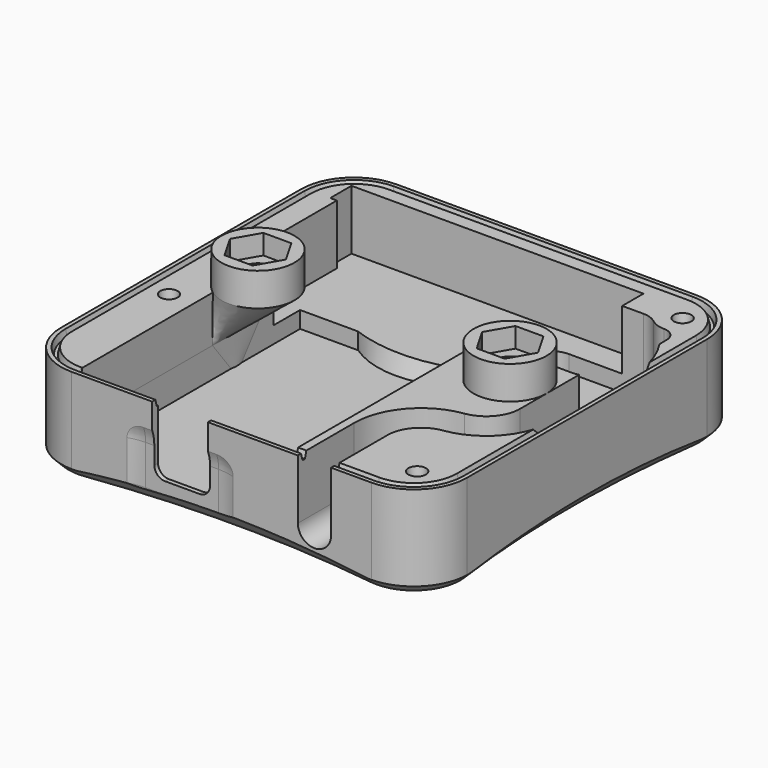
from build123d import *

# Parameters (mm, degrees)
PAD017_DEPTH         = 27.5
POCKET044_DEPTH      = 25.0010001
SKETCH115_W          = 70
SKETCH115_H          = 14
POCKET041_DEPTH      = 30.6010001
POCKET041_DEPTH_BACK = 30.6010001
POCKET048_DEPTH      = 9
SKETCH132_R          = 5.5
PAD019_DEPTH         = 5.5
POCKET049_DEPTH      = 180.2226696994
POCKET055_DEPTH      = 30.6010001


with BuildPart() as part:
    # Sketch116 → Pad017 (new body)
    with BuildSketch(Plane.XY.offset(2.5)):
        with BuildLine():
            Line((-22.6, 30.6), (22.6, 30.6))
            ThreePointArc((30.6, 22.6), (28.2568542495, 28.2568542495), (22.6, 30.6))
            Line((30.6, 22.6), (30.6, -22.6))
            ThreePointArc((22.6, -30.6), (28.2568542495, -28.2568542495), (30.6, -22.6))
            Line((22.6, -30.6), (-22.6, -30.6))
            ThreePointArc((-30.6, -22.6), (-28.2568542495, -28.2568542495), (-22.6, -30.6))
            Line((-30.6, -22.6), (-30.6, 22.6))
            ThreePointArc((-22.6, 30.6), (-28.2568542495, 28.2568542495), (-30.6, 22.6))
        make_face()
    extrude(amount=-PAD017_DEPTH)

    # Sketch117 → Groove014 (revolve, cut)
    with BuildSketch(Plane.XZ.offset(8)):
        Polygon((-26, 3), (-26, -24.2), (-24.4, -8.2), (-23, -6.8), (-23, 3), align=None)
    revolve(axis=Axis((-26, -8, 3), (0, 0, 1)), mode=Mode.SUBTRACT)

    # Sketch118 → Groove013 (revolve, cut)
    with BuildSketch(Plane.XZ.offset(25)):
        Polygon((25, 3), (25, -24.2), (26.6, -8.2), (28, -6.8), (28, 3), align=None)
    revolve(axis=Axis((25, -25, 3), (0, 0, 1)), mode=Mode.SUBTRACT)

    # Sketch119 → Groove016 (revolve, cut)
    with BuildSketch(Plane.XZ.offset(-25)):
        Polygon((25, 3), (25, -24.2), (26.6, -8.2), (28, -6.8), (28, 3), align=None)
    revolve(axis=Axis((25, 25, 3), (0, 0, 1)), mode=Mode.SUBTRACT)

    # SubtractivePipe008: sweep along a path in Sketch126
    with BuildLine(Plane.YZ) as subtractivepipe008_path:
        ThreePointArc((-32.2, -12.527864045), (-30.7227744249, -14.5505102572), (-30.2, -17))
        Line((-30.2, -17), (-30.2, -23))
        ThreePointArc((-30.2, -23), (-30.722774425, -25.4494897428), (-32.2, -27.472135955))
    # Sketch128 → SubtractivePipe008 (sweep, cut)
    with BuildSketch(Plane.XY.offset(-20)):
        with BuildLine():
            ThreePointArc((-11.75, -30.2), (-14.5784271247, -30.7166852265), (-17.0415026221, -32.2))
            Line((-17.0415026221, -32.2), (4.5415026221, -32.2))
            ThreePointArc((4.5415026221, -32.2), (2.0784271247, -30.7166852265), (-0.75, -30.2))
            Line((-11.75, -30.2), (-0.75, -30.2))
        make_face()
    sweep(path=subtractivepipe008_path.line, mode=Mode.SUBTRACT)

    # Sketch129 → Pocket044 (cut, through all)
    with BuildSketch(Plane.XY.offset(-22.5)):
        with BuildLine():
            ThreePointArc((22.8349364905, 22.25), (23.8543560763, 21.6928108612), (25, 21.5))
            ThreePointArc((27, 19.5), (26.4142135624, 20.9142135624), (25, 21.5))
            Line((27, 9.5), (27, 19.5))
            ThreePointArc((23.5, 6), (25.9748737342, 7.0251262658), (27, 9.5))
            Line((9.5, 6), (23.5, 6))
            ThreePointArc((6, 9.5), (7.0251262658, 7.0251262658), (9.5, 6))
            Line((6, 19.5), (6, 9.5))
            ThreePointArc((9.5, 23), (7.0251262658, 21.9748737342), (6, 19.5))
            Line((20.6698729811, 23), (9.5, 23))
            ThreePointArc((22.8349364905, 22.25), (21.8155169048, 22.8071891388), (20.6698729811, 23))
        make_face()
    extrude(amount=POCKET044_DEPTH, mode=Mode.SUBTRACT)

    # Sketch115 → Pocket041 (cut, two sides)
    with BuildSketch(Plane.XZ) as pocket041_sk:
        with Locations((0, -4)):
            Rectangle(SKETCH115_W, SKETCH115_H)
    extrude(amount=-POCKET041_DEPTH, mode=Mode.SUBTRACT)
    extrude(pocket041_sk.sketch, amount=POCKET041_DEPTH_BACK, mode=Mode.SUBTRACT)

    # Sketch122 → Pocket048 (cut, symmetric)
    with BuildSketch(Plane.XY.offset(-11)):
        Polygon((-26.5, 27), (17.5, 27), (17.5, 23), (15.5, 23), (15.5, 7), (-25.5, 7), (-25.5, 23), (-26.5, 23), align=None)
    extrude(amount=POCKET048_DEPTH, both=True, mode=Mode.SUBTRACT)

    # Sketch132 → Pad019 (join)
    with BuildSketch(Plane.XY.offset(-6)):
        with Locations((19, 0)):
            Circle(SKETCH132_R)
    pad019 = extrude(amount=-PAD019_DEPTH)

    # Sketch121 → Groove017 (revolve, cut)
    with BuildSketch(Plane.XZ):
        Polygon((19, -1.5), (21.8, -1.5), (21.2, -3.1484864517), (21.2, -13.5), (19, -13.5), align=None)
    groove017 = revolve(axis=Axis((19, 0, -1.5), (0, 0, 1)), mode=Mode.SUBTRACT)

    # Sketch133 → Pocket049 (cut, through all)
    with BuildSketch(Plane.XY.offset(-9)):
        Polygon((23.2146569651, 0), (21.1073284825, 3.65), (16.8926715175, 3.65), (14.7853430349, 0), (16.8926715175, -3.65), (21.1073284825, -3.65), align=None)
    pocket049 = extrude(amount=POCKET049_DEPTH, mode=Mode.SUBTRACT)

    # Mirrored010: Pad019, Groove017, Pocket049 across YZ
    add(pad019.mirror(Plane.YZ))
    add(groove017.mirror(Plane.YZ), mode=Mode.SUBTRACT)
    add(pocket049.mirror(Plane.YZ), mode=Mode.SUBTRACT)

    # Sketch125 → Pocket055 (cut, through all)
    with BuildSketch(Plane.XZ):
        with BuildLine():
            ThreePointArc((-10.45, -19.5999999999), (-9.9813708499, -20.7313708499), (-8.85, -21.2))
            Line((-8.85, -21.2), (-3.65, -21.2))
            ThreePointArc((-3.65, -21.2), (-2.5186291501, -20.7313708499), (-2.05, -19.6))
            Line((-2.05, 0), (-2.05, -19.6))
            Line((-10.45, 0), (-2.05, 0))
            Line((-10.45, -19.5999999999), (-10.45, 0))
        make_face()
    extrude(amount=POCKET055_DEPTH, mode=Mode.SUBTRACT)

    # Sketch127 → SubtractiveLoft section 0
    with BuildSketch(Plane.XY.offset(-22.5)):
        with BuildLine():
            Line((-22.25, 12), (-13.5, 12))
            ThreePointArc((-13.5, 12), (-6, 9.7), (1.5, 12))
            Line((1.5, 12), (10.25, 12))
            Line((10.25, 12), (10.25, -29.5))
            Line((10.25, -29.5), (-22.25, -29.5))
            Line((-22.25, -29.5), (-22.25, -1))
            ThreePointArc((-22.25, -1), (-22.15, 0), (-22.25, 1))
            Line((-22.25, 1), (-22.25, 12))
        make_face()
    # Sketch124 → SubtractiveLoft section 1
    with BuildSketch(Plane.XY.offset(-18)):
        with BuildLine():
            Line((-22.25, 12), (-13.5, 12))
            ThreePointArc((-13.5, 12), (-6, 11.4318181818), (1.5, 12))
            Line((1.5, 12), (10.25, 12))
            Line((10.25, 12), (10.25, -29.5))
            Line((10.25, -29.5), (-22.25, -29.5))
            Line((-22.25, -29.5), (-22.25, -4.5))
            ThreePointArc((-22.25, -4.5), (-22.15, 0), (-22.25, 4.5))
            Line((-22.25, 4.5), (-22.25, 12))
        make_face()
    # Sketch139 → SubtractiveLoft section 2
    with BuildSketch(Plane.XY.offset(-11)):
        with BuildLine():
            Line((-22.25, 12), (-13.5, 12))
            ThreePointArc((-13.5, 12), (-6, 11.4318181818), (1.5, 12))
            Line((1.5, 12), (10.25, 12))
            Line((10.25, 12), (10.25, -29.5))
            Line((10.25, -29.5), (-22.2499999999, -29.5))
            Line((-22.2499999999, -29.5), (-22.2499999999, -4.4370598374))
            ThreePointArc((-22.2499999999, -4.4370598374), (-13.5, 0), (-22.2499999999, 4.4370598374))
            Line((-22.25, 4.4370598374), (-22.25, 12))
        make_face()
    loft(ruled=True, mode=Mode.SUBTRACT)

    # SubtractivePipe: sweep along a path in Sketch140
    with BuildLine(Plane.XY) as subtractivepipe_path:
        ThreePointArc((21.6332495807, 20), (25.5735281474, 15.6745486619), (27, 10))
        Line((27, 10), (27, -5))
        ThreePointArc((27, -5), (25.1488749734, -9.9623583103), (20.5, -12.5))
        ThreePointArc((20.5, -12.5), (15.8511250266, -15.0376416897), (14, -20))
        Line((14, -20), (14, -40))
    # Sketch141 → SubtractivePipe (sweep, cut)
    with BuildSketch(Plane.XZ):
        with BuildLine():
            ThreePointArc((24.5, -20), (27, -22.5), (29.5, -20))
            Line((29.5, -20), (29.5, 0))
            Line((29.5, 0), (24.5, 0))
            Line((24.5, 0), (24.5, -20))
        make_face()
    sweep(path=subtractivepipe_path.line, mode=Mode.SUBTRACT)

    # SubtractivePipe009: sweep along a path in Sketch142
    with BuildLine(Plane.XY) as subtractivepipe009_path:
        Line((-22.5, 29.5), (22.5, 29.5))
        ThreePointArc((22.5, 29.5), (27.4497474683, 27.4497474683), (29.5, 22.5))
        Line((29.5, 22.5), (29.5, -22.5))
        ThreePointArc((29.5, -22.5), (27.4497474683, -27.4497474683), (22.5, -29.5))
        Line((22.5, -29.5), (-22.5, -29.5))
        ThreePointArc((-22.5, -29.5), (-27.4497474683, -27.4497474683), (-29.5, -22.5))
        Line((-29.5, -22.5), (-29.5, 22.5))
        ThreePointArc((-29.5, 22.5), (-27.4497474683, 27.4497474683), (-22.5, 29.5))
    # Sketch143 → SubtractivePipe009 (sweep, cut)
    with BuildSketch(Plane.YZ):
        Polygon((30.0535898385, -10.8), (28.9464101615, -10.8), (29.2679491924, -12), (29.7320508076, -12), align=None)
    sweep(path=subtractivepipe009_path.line, mode=Mode.SUBTRACT)

    # SubtractivePipe010: sweep along a path in Sketch146
    with BuildLine(Plane.XY) as subtractivepipe010_path:
        ThreePointArc((29.4380530973, 21.5707964602), (28, 0), (29.4380530973, -21.5707964602))
        ThreePointArc((29.4380530973, -21.5707964602), (27.4497474683, -27.4497474683), (21.5707964602, -29.4380530973))
        ThreePointArc((21.5707964602, -29.4380530973), (0, -28), (-21.5707964602, -29.4380530973))
        ThreePointArc((-21.5707964602, -29.4380530973), (-27.4497474683, -27.4497474683), (-29.4380530973, -21.5707964602))
        ThreePointArc((-29.4380530973, -21.5707964602), (-28, 0), (-29.4380530973, 21.5707964602))
        ThreePointArc((-29.4380530973, 21.5707964602), (-27.4497474683, 27.4497474683), (-21.5707964602, 29.4380530973))
        ThreePointArc((-21.5707964602, 29.4380530973), (0, 28), (21.5707964602, 29.4380530973))
        ThreePointArc((21.5707964602, 29.4380530973), (27.4497474683, 27.4497474683), (29.4380530973, 21.5707964602))
    # Sketch145 → SubtractivePipe010 (sweep, cut)
    with BuildSketch(Plane.XZ):
        Polygon((32, -21), (26, -27), (32, -27), align=None)
    sweep(path=subtractivepipe010_path.line, mode=Mode.SUBTRACT)


solid = part.part
